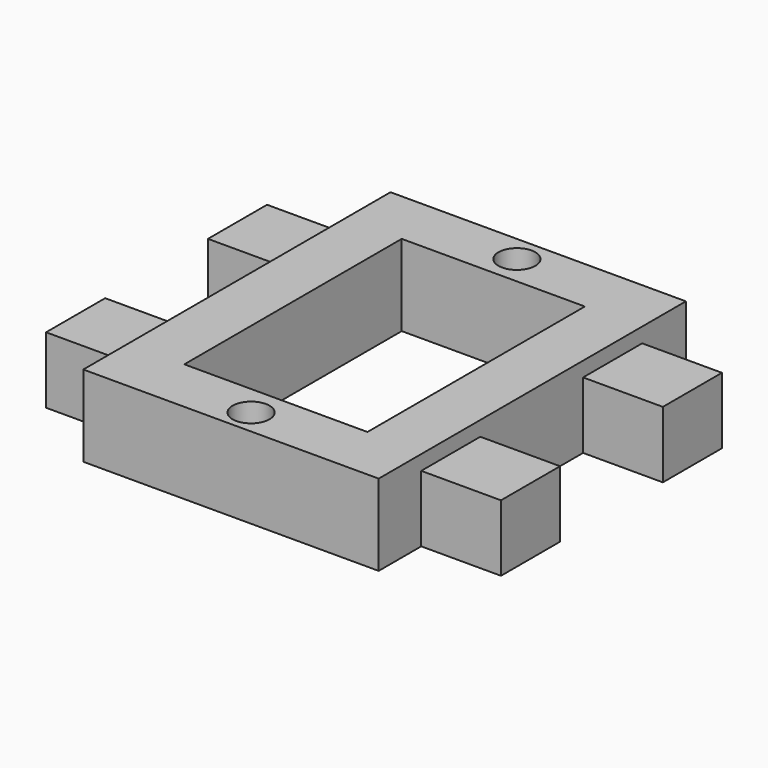
from build123d import *

# Parameters (mm, degrees)
F0_R     = 1.5875
F0_W     = 15.748
F0_H     = 23.368
F0_W_2   = 6.858
F0_H_2   = 6.35
F1_DEPTH = 5.715
F2_W     = 25.4
F2_H     = 33.02
F2_R     = 1.5875
F2_W_2   = 15.748
F2_H_2   = 23.368
F3_DEPTH = 1.27


with BuildPart() as f1:
    # F0 (on Top) → F1 (new body)
    with BuildSketch(Plane.XY):
        Polygon((12.7, 16.51), (-12.7, 16.51), (-12.7, 11.811), (-12.7, 5.461), (-12.7, -5.588), (-12.7, -11.938), (-12.7, -16.51), (12.7, -16.51), (12.7, -11.938), (12.7, -5.588), (12.7, 5.461), (12.7, 11.811), align=None)
        with Locations((0, -14.351)):
            Circle(F0_R, mode=Mode.SUBTRACT)
        Rectangle(F0_W, F0_H, mode=Mode.SUBTRACT)
        with Locations((0, 14.224)):
            Circle(F0_R, mode=Mode.SUBTRACT)
        with Locations((-16.129, 8.636)):
            Rectangle(F0_W_2, F0_H_2)
        with Locations((16.129, 8.636)):
            Rectangle(F0_W_2, F0_H_2)
        with Locations((-16.129, -8.763)):
            Rectangle(F0_W_2, F0_H_2)
        with Locations((16.129, -8.763)):
            Rectangle(F0_W_2, F0_H_2)
    extrude(amount=-F1_DEPTH)

    # F2 (on face) → F3 (join)
    with BuildSketch(Plane.XY):
        Rectangle(F2_W, F2_H)
        with Locations((0, -14.351)):
            Circle(F2_R, mode=Mode.SUBTRACT)
        with Locations((0, 14.224)):
            Circle(F2_R, mode=Mode.SUBTRACT)
        Rectangle(F2_W_2, F2_H_2, mode=Mode.SUBTRACT)
    extrude(amount=F3_DEPTH)


solid = f1.part
